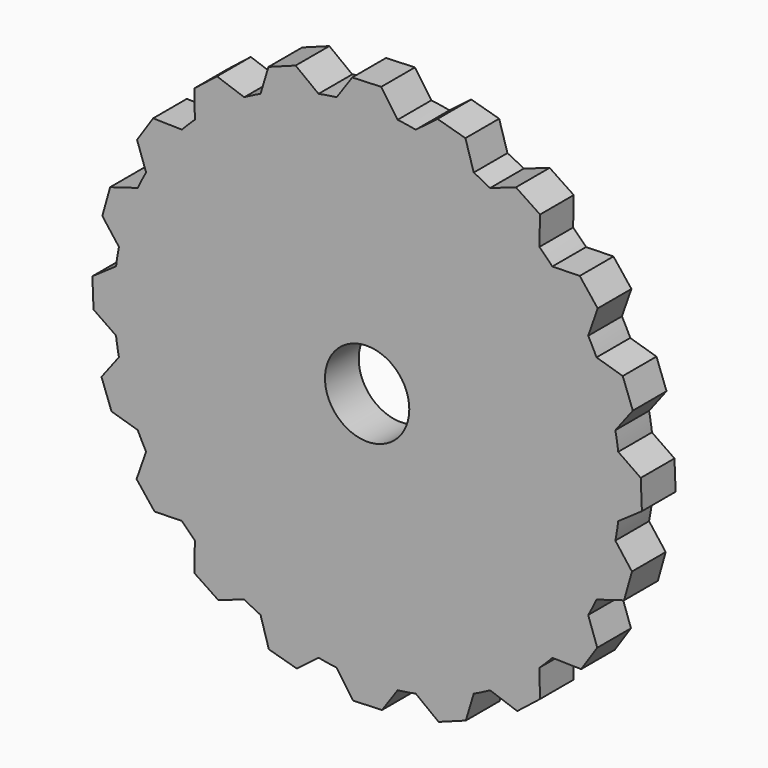
from build123d import *

# Parameters (mm, degrees)
F0_R     = 6.35
F1_DEPTH = 6.35


with BuildPart() as f1:
    # F0 (on Front) → F1 (new body)
    with BuildSketch(Plane.XZ):
        with BuildLine():
            Line((-2.24177, 41.214794), (-4.592605, 37.822189))
            ThreePointArc((-4.592605, 37.822189), (-5.960153, 37.630926), (-7.319872, 37.390232))
            Line((-7.319872, 37.390232), (-10.772221, 40.018387))
            Line((-10.772221, 40.018387), (-14.868121, 38.504853))
            Line((-14.868121, 38.504853), (-16.055526, 34.551846))
            ThreePointArc((-16.055526, 34.551846), (-17.297038, 33.947349), (-18.515829, 33.298259))
            Line((-18.515829, 33.298259), (-22.611352, 34.730948))
            Line((-22.611352, 34.730948), (-26.039078, 32.02579))
            Line((-26.039078, 32.02579), (-25.946821, 27.899328))
            ThreePointArc((-25.946821, 27.899328), (-26.940768, 26.940768), (-27.899328, 25.946821))
            Line((-27.899328, 25.946821), (-32.237127, 26.043803))
            Line((-32.237127, 26.043803), (-34.661148, 22.411818))
            Line((-34.661148, 22.411818), (-33.298259, 18.515829))
            ThreePointArc((-33.298259, 18.515829), (-33.947349, 17.297038), (-34.551846, 16.055526))
            Line((-34.551846, 16.055526), (-38.707307, 14.807308))
            Line((-38.707307, 14.807308), (-39.890343, 10.604022))
            Line((-39.890343, 10.604022), (-37.390232, 7.319872))
            ThreePointArc((-37.390232, 7.319872), (-37.630926, 5.960153), (-37.822189, 4.592605))
            Line((-37.822189, 4.592605), (-41.388547, 2.121371))
            Line((-41.388547, 2.121371), (-41.214794, -2.24177))
            Line((-41.214794, -2.24177), (-37.822189, -4.592605))
            ThreePointArc((-37.822189, -4.592605), (-37.630926, -5.960153), (-37.390232, -7.319872))
            Line((-37.390232, -7.319872), (-40.018387, -10.772221))
            Line((-40.018387, -10.772221), (-38.504853, -14.868121))
            Line((-38.504853, -14.868121), (-34.551846, -16.055526))
            ThreePointArc((-34.551846, -16.055526), (-33.947349, -17.297038), (-33.298259, -18.515829))
            Line((-33.298259, -18.515829), (-34.730948, -22.611352))
            Line((-34.730948, -22.611352), (-32.02579, -26.039078))
            Line((-32.02579, -26.039078), (-27.899328, -25.946821))
            ThreePointArc((-27.899328, -25.946821), (-26.940768, -26.940768), (-25.946821, -27.899328))
            Line((-25.946821, -27.899328), (-26.043803, -32.237127))
            Line((-26.043803, -32.237127), (-22.411818, -34.661148))
            Line((-22.411818, -34.661148), (-18.515829, -33.298259))
            ThreePointArc((-18.515829, -33.298259), (-17.297038, -33.947349), (-16.055526, -34.551846))
            Line((-16.055526, -34.551846), (-14.807308, -38.707307))
            Line((-14.807308, -38.707307), (-10.604022, -39.890343))
            Line((-10.604022, -39.890343), (-7.319872, -37.390232))
            ThreePointArc((-7.319872, -37.390232), (-5.960153, -37.630926), (-4.592605, -37.822189))
            Line((-4.592605, -37.822189), (-2.121371, -41.388547))
            Line((-2.121371, -41.388547), (2.24177, -41.214794))
            Line((2.24177, -41.214794), (4.592605, -37.822189))
            ThreePointArc((4.592605, -37.822189), (5.960153, -37.630926), (7.319872, -37.390232))
            Line((7.319872, -37.390232), (10.772221, -40.018387))
            Line((10.772221, -40.018387), (14.868121, -38.504853))
            Line((14.868121, -38.504853), (16.055526, -34.551846))
            ThreePointArc((16.055526, -34.551846), (17.297038, -33.947349), (18.515829, -33.298259))
            Line((18.515829, -33.298259), (22.611352, -34.730948))
            Line((22.611352, -34.730948), (26.039078, -32.02579))
            Line((26.039078, -32.02579), (25.946821, -27.899328))
            ThreePointArc((25.946821, -27.899328), (26.940768, -26.940768), (27.899328, -25.946821))
            Line((27.899328, -25.946821), (32.237127, -26.043803))
            Line((32.237127, -26.043803), (34.661148, -22.411818))
            Line((34.661148, -22.411818), (33.298259, -18.515829))
            ThreePointArc((33.298259, -18.515829), (33.947349, -17.297038), (34.551846, -16.055526))
            Line((34.551846, -16.055526), (38.707307, -14.807308))
            Line((38.707307, -14.807308), (39.890343, -10.604022))
            Line((39.890343, -10.604022), (37.390232, -7.319872))
            ThreePointArc((37.390232, -7.319872), (37.630926, -5.960153), (37.822189, -4.592605))
            Line((37.822189, -4.592605), (41.388547, -2.121371))
            Line((41.388547, -2.121371), (41.214794, 2.24177))
            Line((41.214794, 2.24177), (37.822189, 4.592605))
            ThreePointArc((37.822189, 4.592605), (37.630926, 5.960153), (37.390232, 7.319872))
            Line((37.390232, 7.319872), (40.018387, 10.772221))
            Line((40.018387, 10.772221), (38.504853, 14.868121))
            Line((38.504853, 14.868121), (34.551846, 16.055526))
            ThreePointArc((34.551846, 16.055526), (33.947349, 17.297038), (33.298259, 18.515829))
            Line((33.298259, 18.515829), (34.730948, 22.611352))
            Line((34.730948, 22.611352), (32.02579, 26.039078))
            Line((32.02579, 26.039078), (27.899328, 25.946821))
            ThreePointArc((27.899328, 25.946821), (26.940768, 26.940768), (25.946821, 27.899328))
            Line((25.946821, 27.899328), (26.043803, 32.237127))
            Line((26.043803, 32.237127), (22.411818, 34.661148))
            Line((22.411818, 34.661148), (18.515829, 33.298259))
            ThreePointArc((18.515829, 33.298259), (17.297038, 33.947349), (16.055526, 34.551846))
            Line((16.055526, 34.551846), (14.807308, 38.707307))
            Line((14.807308, 38.707307), (10.604022, 39.890343))
            Line((10.604022, 39.890343), (7.319872, 37.390232))
            ThreePointArc((7.319872, 37.390232), (5.960153, 37.630926), (4.592605, 37.822189))
            Line((4.592605, 37.822189), (2.121387, 41.388558))
            Line((2.121387, 41.388558), (-2.24177, 41.214794))
        make_face()
        Circle(F0_R, mode=Mode.SUBTRACT)
    extrude(amount=F1_DEPTH)


solid = f1.part
